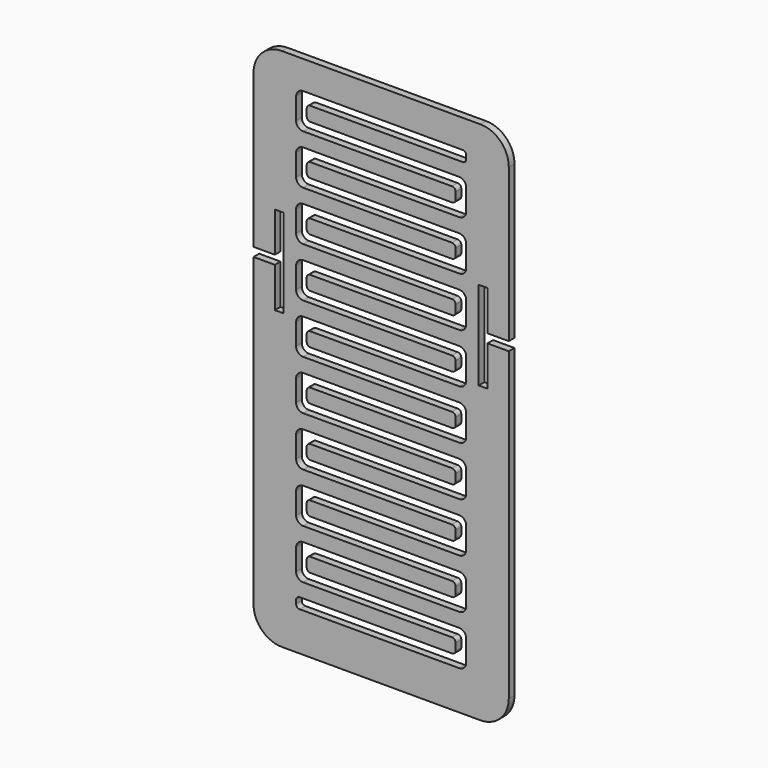
from build123d import *

# Parameters (mm, degrees)
F1_DEPTH = 6.35


with BuildPart() as f1:
    # F0 (on Front) → F1 (new body)
    with BuildSketch(Plane.XZ):
        with BuildLine():
            Line((-88.9, -234.95), (88.9, -234.95))
            ThreePointArc((88.9, -234.95), (106.860512, -227.510512), (114.3, -209.55))
            Line((114.3, -209.55), (114.3, 64.29375))
            Line((114.3, 64.29375), (95.25, 64.29375))
            Line((95.25, 64.29375), (95.25, 28.575))
            Line((95.25, 28.575), (87.3125, 28.575))
            Line((87.3125, 28.575), (87.3125, 107.95))
            Line((87.3125, 107.95), (95.25, 107.95))
            Line((95.25, 107.95), (95.25, 72.23125))
            Line((95.25, 72.23125), (114.3, 72.23125))
            Line((114.3, 72.23125), (114.3, 209.55))
            ThreePointArc((114.3, 209.55), (106.860512, 227.510512), (88.9, 234.95))
            Line((88.9, 234.95), (-88.9, 234.95))
            ThreePointArc((-88.9, 234.95), (-106.860512, 227.510512), (-114.3, 209.55))
            Line((-114.3, 209.55), (-114.3, 72.23125))
            Line((-114.3, 72.23125), (-95.25, 72.23125))
            Line((-95.25, 72.23125), (-95.25, 107.95))
            Line((-95.25, 107.95), (-87.3125, 107.95))
            Line((-87.3125, 107.95), (-87.3125, 28.575))
            Line((-87.3125, 28.575), (-95.25, 28.575))
            Line((-95.25, 28.575), (-95.25, 64.29375))
            Line((-95.25, 64.29375), (-114.3, 64.29375))
            Line((-114.3, 64.29375), (-114.3, -209.55))
            ThreePointArc((-114.3, -209.55), (-106.860512, -227.510512), (-88.9, -234.95))
        make_face()
        with BuildLine():
            ThreePointArc((-76.2, 203.2), (-74.340128, 207.690128), (-69.85, 209.55))
            Line((-69.85, 209.55), (73.025, 209.55))
            ThreePointArc((73.025, 209.55), (75.270064, 208.620064), (76.2, 206.375))
            Line((76.2, 206.375), (76.2, 203.2))
            ThreePointArc((76.2, 203.2), (75.270064, 200.954936), (73.025, 200.025))
            Line((73.025, 200.025), (-63.5, 200.025))
            ThreePointArc((-63.5, 200.025), (-65.745064, 199.095064), (-66.675, 196.85))
            Line((-66.675, 196.85), (-66.675, 190.5))
            ThreePointArc((-66.675, 190.5), (-65.745064, 188.254936), (-63.5, 187.325))
            Line((-63.5, 187.325), (69.85, 187.325))
            ThreePointArc((69.85, 187.325), (74.340128, 185.465128), (76.2, 180.975))
            Line((76.2, 180.975), (76.2, 161.925))
            ThreePointArc((76.2, 161.925), (74.340128, 157.434872), (69.85, 155.575))
            Line((69.85, 155.575), (-63.5, 155.575))
            ThreePointArc((-63.5, 155.575), (-65.745064, 154.645064), (-66.675, 152.4))
            Line((-66.675, 152.4), (-66.675, 146.05))
            ThreePointArc((-66.675, 146.05), (-65.745064, 143.804936), (-63.5, 142.875))
            Line((-63.5, 142.875), (69.85, 142.875))
            ThreePointArc((69.85, 142.875), (74.340128, 141.015128), (76.2, 136.525))
            Line((76.2, 136.525), (76.2, 117.475))
            ThreePointArc((76.2, 117.475), (74.340128, 112.984872), (69.85, 111.125))
            Line((69.85, 111.125), (-63.5, 111.125))
            ThreePointArc((-63.5, 111.125), (-65.745064, 110.195064), (-66.675, 107.95))
            Line((-66.675, 107.95), (-66.675, 101.6))
            ThreePointArc((-66.675, 101.6), (-65.745064, 99.354936), (-63.5, 98.425))
            Line((-63.5, 98.425), (69.85, 98.425))
            ThreePointArc((69.85, 98.425), (74.340128, 96.565128), (76.2, 92.075))
            Line((76.2, 92.075), (76.2, 73.025))
            ThreePointArc((76.2, 73.025), (74.340128, 68.534872), (69.85, 66.675))
            Line((69.85, 66.675), (-63.5, 66.675))
            ThreePointArc((-63.5, 66.675), (-65.745064, 65.745064), (-66.675, 63.5))
            Line((-66.675, 63.5), (-66.675, 57.15))
            ThreePointArc((-66.675, 57.15), (-65.745064, 54.904936), (-63.5, 53.975))
            Line((-63.5, 53.975), (69.85, 53.975))
            ThreePointArc((69.85, 53.975), (74.340128, 52.115128), (76.2, 47.625))
            Line((76.2, 47.625), (76.2, 28.575))
            ThreePointArc((76.2, 28.575), (74.340128, 24.084872), (69.85, 22.225))
            Line((69.85, 22.225), (-63.5, 22.225))
            ThreePointArc((-63.5, 22.225), (-65.745064, 21.295064), (-66.675, 19.05))
            Line((-66.675, 19.05), (-66.675, 12.7))
            ThreePointArc((-66.675, 12.7), (-65.745064, 10.454936), (-63.5, 9.525))
            Line((-63.5, 9.525), (69.85, 9.525))
            ThreePointArc((69.85, 9.525), (74.340128, 7.665128), (76.2, 3.175))
            Line((76.2, 3.175), (76.2, -15.875))
            ThreePointArc((76.2, -15.875), (74.340128, -20.365128), (69.85, -22.225))
            Line((69.85, -22.225), (-63.5, -22.225))
            ThreePointArc((-63.5, -22.225), (-65.745064, -23.154936), (-66.675, -25.4))
            Line((-66.675, -25.4), (-66.675, -31.75))
            ThreePointArc((-66.675, -31.75), (-65.745064, -33.995064), (-63.5, -34.925))
            Line((-63.5, -34.925), (69.85, -34.925))
            ThreePointArc((69.85, -34.925), (74.340128, -36.784872), (76.2, -41.275))
            Line((76.2, -41.275), (76.2, -60.325))
            ThreePointArc((76.2, -60.325), (74.340128, -64.815128), (69.85, -66.675))
            Line((69.85, -66.675), (-63.5, -66.675))
            ThreePointArc((-63.5, -66.675), (-65.745064, -67.604936), (-66.675, -69.85))
            Line((-66.675, -69.85), (-66.675, -76.2))
            ThreePointArc((-66.675, -76.2), (-65.745064, -78.445064), (-63.5, -79.375))
            Line((-63.5, -79.375), (69.85, -79.375))
            ThreePointArc((69.85, -79.375), (74.340128, -81.234872), (76.2, -85.725))
            Line((76.2, -85.725), (76.2, -104.775))
            ThreePointArc((76.2, -104.775), (74.340128, -109.265128), (69.85, -111.125))
            Line((69.85, -111.125), (-63.5, -111.125))
            ThreePointArc((-63.5, -111.125), (-65.745064, -112.054936), (-66.675, -114.3))
            Line((-66.675, -114.3), (-66.675, -120.65))
            ThreePointArc((-66.675, -120.65), (-65.745064, -122.895064), (-63.5, -123.825))
            Line((-63.5, -123.825), (69.85, -123.825))
            ThreePointArc((69.85, -123.825), (74.340128, -125.684872), (76.2, -130.175))
            Line((76.2, -130.175), (76.2, -149.225))
            ThreePointArc((76.2, -149.225), (74.340128, -153.715128), (69.85, -155.575))
            Line((69.85, -155.575), (-63.5, -155.575))
            ThreePointArc((-63.5, -155.575), (-65.745064, -156.504936), (-66.675, -158.75))
            Line((-66.675, -158.75), (-66.675, -165.1))
            ThreePointArc((-66.675, -165.1), (-65.745064, -167.345064), (-63.5, -168.275))
            Line((-63.5, -168.275), (69.85, -168.275))
            ThreePointArc((69.85, -168.275), (74.340128, -170.134872), (76.2, -174.625))
            Line((76.2, -174.625), (76.2, -193.675))
            ThreePointArc((76.2, -193.675), (74.340128, -198.165128), (69.85, -200.025))
            Line((69.85, -200.025), (-63.5, -200.025))
            Line((-63.5, -200.025), (-73.025, -200.025))
            ThreePointArc((-73.025, -200.025), (-75.270064, -199.095064), (-76.2, -196.85))
            Line((-76.2, -196.85), (-76.2, -193.675))
            ThreePointArc((-76.2, -193.675), (-75.270064, -191.429936), (-73.025, -190.5))
            Line((-73.025, -190.5), (-69.85, -190.5))
            Line((-69.85, -190.5), (63.5, -190.5))
            ThreePointArc((63.5, -190.5), (65.745064, -189.570064), (66.675, -187.325))
            Line((66.675, -187.325), (66.675, -180.975))
            ThreePointArc((66.675, -180.975), (65.745064, -178.729936), (63.5, -177.8))
            Line((63.5, -177.8), (-69.85, -177.8))
            ThreePointArc((-69.85, -177.8), (-74.340128, -175.940128), (-76.2, -171.45))
            Line((-76.2, -171.45), (-76.2, -152.4))
            ThreePointArc((-76.2, -152.4), (-74.340128, -147.909872), (-69.85, -146.05))
            Line((-69.85, -146.05), (63.5, -146.05))
            ThreePointArc((63.5, -146.05), (65.745064, -145.120064), (66.675, -142.875))
            Line((66.675, -142.875), (66.675, -136.525))
            ThreePointArc((66.675, -136.525), (65.745064, -134.279936), (63.5, -133.35))
            Line((63.5, -133.35), (-69.85, -133.35))
            ThreePointArc((-69.85, -133.35), (-74.340128, -131.490128), (-76.2, -127))
            Line((-76.2, -127), (-76.2, -107.95))
            ThreePointArc((-76.2, -107.95), (-74.340128, -103.459872), (-69.85, -101.6))
            Line((-69.85, -101.6), (63.5, -101.6))
            ThreePointArc((63.5, -101.6), (65.745064, -100.670064), (66.675, -98.425))
            Line((66.675, -98.425), (66.675, -92.075))
            ThreePointArc((66.675, -92.075), (65.745064, -89.829936), (63.5, -88.9))
            Line((63.5, -88.9), (-69.85, -88.9))
            ThreePointArc((-69.85, -88.9), (-74.340128, -87.040128), (-76.2, -82.55))
            Line((-76.2, -82.55), (-76.2, -63.5))
            ThreePointArc((-76.2, -63.5), (-74.340128, -59.009872), (-69.85, -57.15))
            Line((-69.85, -57.15), (63.5, -57.15))
            ThreePointArc((63.5, -57.15), (65.745064, -56.220064), (66.675, -53.975))
            Line((66.675, -53.975), (66.675, -47.625))
            ThreePointArc((66.675, -47.625), (65.745064, -45.379936), (63.5, -44.45))
            Line((63.5, -44.45), (-69.85, -44.45))
            ThreePointArc((-69.85, -44.45), (-74.340128, -42.590128), (-76.2, -38.1))
            Line((-76.2, -38.1), (-76.2, -19.05))
            ThreePointArc((-76.2, -19.05), (-74.340128, -14.559872), (-69.85, -12.7))
            Line((-69.85, -12.7), (63.5, -12.7))
            ThreePointArc((63.5, -12.7), (65.745064, -11.770064), (66.675, -9.525))
            Line((66.675, -9.525), (66.675, -3.175))
            ThreePointArc((66.675, -3.175), (65.745064, -0.929936), (63.5, 0))
            Line((63.5, 0), (-69.85, 0))
            ThreePointArc((-69.85, 0), (-74.340128, 1.859872), (-76.2, 6.35))
            Line((-76.2, 6.35), (-76.2, 25.4))
            ThreePointArc((-76.2, 25.4), (-74.340128, 29.890128), (-69.85, 31.75))
            Line((-69.85, 31.75), (63.5, 31.75))
            ThreePointArc((63.5, 31.75), (65.745064, 32.679936), (66.675, 34.925))
            Line((66.675, 34.925), (66.675, 41.275))
            ThreePointArc((66.675, 41.275), (65.745064, 43.520064), (63.5, 44.45))
            Line((63.5, 44.45), (-69.85, 44.45))
            ThreePointArc((-69.85, 44.45), (-74.340128, 46.309872), (-76.2, 50.8))
            Line((-76.2, 50.8), (-76.2, 69.85))
            ThreePointArc((-76.2, 69.85), (-74.340128, 74.340128), (-69.85, 76.2))
            Line((-69.85, 76.2), (63.5, 76.2))
            ThreePointArc((63.5, 76.2), (65.745064, 77.129936), (66.675, 79.375))
            Line((66.675, 79.375), (66.675, 85.725))
            ThreePointArc((66.675, 85.725), (65.745064, 87.970064), (63.5, 88.9))
            Line((63.5, 88.9), (-69.85, 88.9))
            ThreePointArc((-69.85, 88.9), (-74.340128, 90.759872), (-76.2, 95.25))
            Line((-76.2, 95.25), (-76.2, 114.3))
            ThreePointArc((-76.2, 114.3), (-74.340128, 118.790128), (-69.85, 120.65))
            Line((-69.85, 120.65), (63.5, 120.65))
            ThreePointArc((63.5, 120.65), (65.745064, 121.579936), (66.675, 123.825))
            Line((66.675, 123.825), (66.675, 130.175))
            ThreePointArc((66.675, 130.175), (65.745064, 132.420064), (63.5, 133.35))
            Line((63.5, 133.35), (-69.85, 133.35))
            ThreePointArc((-69.85, 133.35), (-74.340128, 135.209872), (-76.2, 139.7))
            Line((-76.2, 139.7), (-76.2, 158.75))
            ThreePointArc((-76.2, 158.75), (-74.340128, 163.240128), (-69.85, 165.1))
            Line((-69.85, 165.1), (63.5, 165.1))
            ThreePointArc((63.5, 165.1), (65.745064, 166.029936), (66.675, 168.275))
            Line((66.675, 168.275), (66.675, 174.625))
            ThreePointArc((66.675, 174.625), (65.745064, 176.870064), (63.5, 177.8))
            Line((63.5, 177.8), (-69.85, 177.8))
            ThreePointArc((-69.85, 177.8), (-74.340128, 179.659872), (-76.2, 184.15))
            Line((-76.2, 184.15), (-76.2, 203.2))
        make_face(mode=Mode.SUBTRACT)
    extrude(amount=F1_DEPTH)


solid = f1.part
